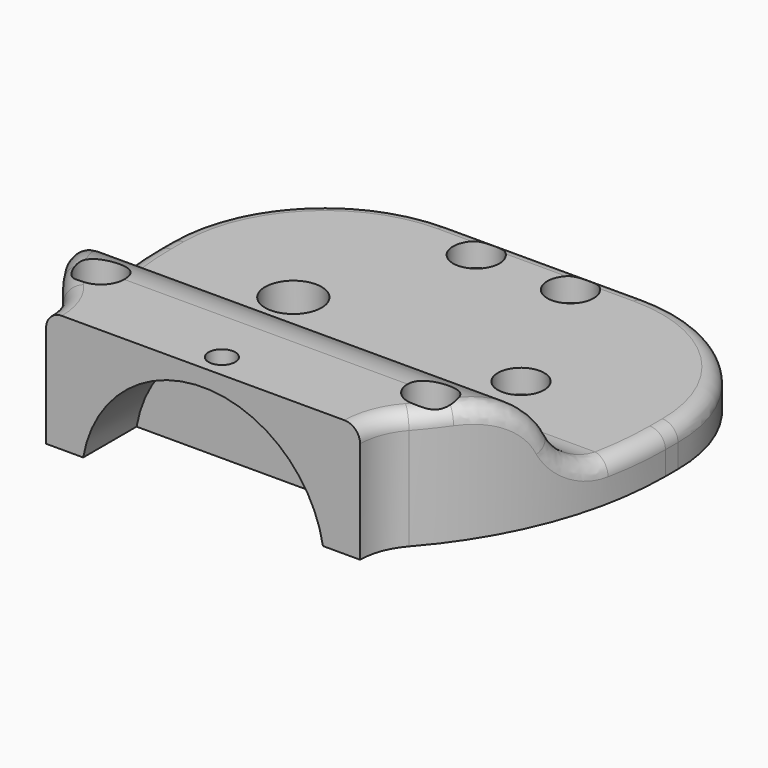
from build123d import *

# Parameters (mm, degrees)
SKETCH_R        = 1.7
SKETCH_R_2      = 3.6
PAD_DEPTH       = 15
POCKET_DEPTH    = 65.001
FILLET_R        = 2
SKETCH002_R     = 2.95
POCKET001_DEPTH = 3
SKETCH003_R     = 2.95
POCKET002_DEPTH = 7
SKETCH004_R     = 15.5
POCKET003_DEPTH = 8.5
SKETCH005_R     = 1.7
POCKET004_DEPTH = 15.001


with BuildPart() as part:
    # Sketch → Pad (new body)
    with BuildSketch(Plane.XY):
        with BuildLine():
            Line((-20, 0), (20, 0))
            ThreePointArc((22, 5.28), (20.516753, 2.823048), (20, 0))
            ThreePointArc((22, 5.28), (29.787045, 18.178998), (32.5, 33))
            Line((32.5, 35), (32.5, 33))
            ThreePointArc((32.5, 35), (26.642136, 49.142136), (12.5, 55))
            Line((-12.5, 55), (12.5, 55))
            ThreePointArc((-12.5, 55), (-26.642136, 49.142136), (-32.5, 35))
            Line((-32.5, 35), (-32.5, 33))
            ThreePointArc((-32.5, 33), (-29.787045, 18.178998), (-22, 5.28))
            ThreePointArc((-20, 0), (-20.516753, 2.823048), (-22, 5.28))
        make_face()
        with Locations((-6, 51)):
            Circle(SKETCH_R, mode=Mode.SUBTRACT)
        with Locations((6, 51)):
            Circle(SKETCH_R, mode=Mode.SUBTRACT)
        with Locations((-21, 10)):
            Circle(SKETCH_R, mode=Mode.SUBTRACT)
        with Locations((21, 10)):
            Circle(SKETCH_R, mode=Mode.SUBTRACT)
        with Locations((-14.5, 32.5)):
            Circle(SKETCH_R_2, mode=Mode.SUBTRACT)
        with Locations((14.5, 32.5)):
            Circle(SKETCH_R, mode=Mode.SUBTRACT)
    extrude(amount=PAD_DEPTH)

    # Sketch001 (on Face8 of Pad) → Pocket (cut, through all)
    with BuildSketch(Plane.YZ.offset(32.5)):
        with BuildLine():
            ThreePointArc((19.171208, 8.986093), (15.48357, 13.362444), (10, 15))
            Line((10, 15), (0, 15))
            Line((0, 15), (0, 20))
            Line((0, 20), (60, 20))
            Line((60, 20), (60, 5))
            Line((60, 5), (25.25, 5))
            ThreePointArc((19.171208, 8.986093), (21.615422, 6.085393), (25.25, 5))
        make_face()
    extrude(amount=-POCKET_DEPTH, mode=Mode.SUBTRACT)

    # Fillet
    fillet_edges = [part.edges().sort_by_distance(p)[0] for p in [
        (28.554501, 15.263158, 13.502892),
    ]]
    fillet(fillet_edges, radius=FILLET_R)

    # Sketch002 (on Face8 of Fillet) → Pocket001 (cut)
    with BuildSketch(Plane.XY.offset(5)):
        with Locations((-6, 51)):
            Circle(SKETCH002_R)
        with Locations((6, 51)):
            Circle(SKETCH002_R)
        with Locations((14.5, 32.5)):
            Circle(SKETCH002_R)
    extrude(amount=-POCKET001_DEPTH, mode=Mode.SUBTRACT)

    # Sketch003 (on Face34 of Pocket001) → Pocket002 (cut)
    with BuildSketch(Plane.XY.offset(15)):
        with Locations((-21, 10)):
            Circle(SKETCH003_R)
        with Locations((21, 10)):
            Circle(SKETCH003_R)
    extrude(amount=-POCKET002_DEPTH, mode=Mode.SUBTRACT)

    # Sketch004 (on Face11 of Pocket002) → Pocket003 (cut)
    with BuildSketch(Plane.XZ):
        with Locations((0, -2.65)):
            Circle(SKETCH004_R)
    extrude(amount=-POCKET003_DEPTH, mode=Mode.SUBTRACT)

    # Sketch005 (on Face39 of Pocket003) → Pocket004 (cut, through all)
    with BuildSketch(Plane.XY.offset(15)):
        with Locations((0, 3)):
            Circle(SKETCH005_R)
    extrude(amount=-POCKET004_DEPTH, mode=Mode.SUBTRACT)


solid = part.part
